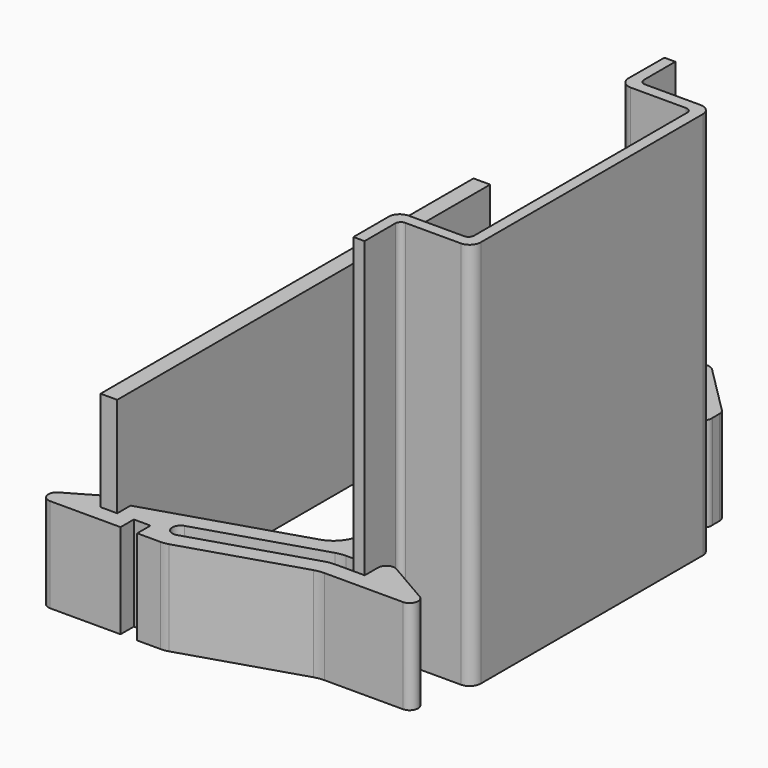
from build123d import *

# Parameters (mm, degrees)
PAD001_DEPTH = 35
PAD_DEPTH    = 8.5
BOX_W        = 1.5
BOX_H        = 42
BOX_DEPTH    = 17.5


with BuildPart() as din_rail:
    # Sketch001 → Pad001 (new body)
    with BuildSketch(Plane(origin=(0, 17.5, 0), x_dir=(1, 0, 0), z_dir=(0, 0, 1))):
        with BuildLine():
            Line((0, 0), (0.981065, 0))
            Line((0.981065, 0), (0.981065, -3.535445))
            ThreePointArc((0.981065, -3.535445), (1.127512, -3.888998), (1.481065, -4.035445))
            Line((1.481065, -4.035445), (6.481065, -4.035445))
            ThreePointArc((7.481065, -5.035445), (7.188172, -4.328338), (6.481065, -4.035445))
            Line((7.481065, -5.035445), (7.481065, -30.035445))
            ThreePointArc((6.481065, -31.035445), (7.188172, -30.742552), (7.481065, -30.035445))
            Line((6.481065, -31.035445), (1.481065, -31.035445))
            ThreePointArc((1.481065, -31.035445), (1.127512, -31.181892), (0.981065, -31.535445))
            Line((0.981065, -31.535445), (0.981065, -35))
            Line((0.981065, -35), (-0.018935, -35))
            Line((-0.018935, -35), (-0.018935, -31.035445))
            ThreePointArc((0.981065, -30.035445), (0.273958, -30.328338), (-0.018935, -31.035445))
            Line((0.981065, -30.035445), (5.981065, -30.035445))
            ThreePointArc((5.981065, -30.035445), (6.334618, -29.888998), (6.481065, -29.535445))
            Line((6.481065, -29.535445), (6.481065, -5.535445))
            ThreePointArc((6.481065, -5.535445), (6.334618, -5.181892), (5.981065, -5.035445))
            Line((5.981065, -5.035445), (0.981065, -5.035445))
            ThreePointArc((-0.018935, -4.035445), (0.273958, -4.742552), (0.981065, -5.035445))
            Line((-0.018935, -4.035445), (0, 0))
        make_face()
    extrude(amount=PAD001_DEPTH)


with BuildPart() as din_bracket_half:
    # Sketch → Pad (new body)
    with BuildSketch(Plane(origin=(-3, 0, 0), x_dir=(1, 0, 0), z_dir=(0, 0, 1))):
        with BuildLine():
            Line((2.771987, 22.541663), (-12.5, 22.541663))
            Line((-12.5, 22.541663), (-12.5, 21.041663))
            Line((-12.5, 21.041663), (-14, 21.041663))
            Line((-14, 21.041663), (-14, 22.541663))
            Line((-14, 22.541663), (-17.75, 22.541663))
            ThreePointArc((-17.75, 22.541663), (-18.28033, 22.321993), (-18.5, 21.791663))
            Line((-18.5, 21.791663), (-18.5, 19.5))
            Line((-18.5, 19.5), (-17, 19.5))
            Line((-17, 19.5), (-17, 21))
            Line((-17, 21), (-15.5, 21))
            Line((-15.5, 21), (-15.5, 19.541663))
            Line((-15.5, 19.541663), (-1.047056, 19.541663))
            ThreePointArc((0, 18.474809), (-0.305125, 19.222587), (-1.047056, 19.541663))
            Line((0, 18.474809), (-0.037298, -12.767241))
            ThreePointArc((-1.830702, -15.207168), (-0.534684, -14.280711), (-0.037298, -12.767241))
            Line((-15.5, -19.5), (-1.830702, -15.207168))
            Line((-15.5, -19.5), (-15.5, -21))
            Line((-15.5, -21), (-17, -21))
            Line((-17, -21), (-17, -20.25))
            ThreePointArc((-17, -20.25), (-17.375, -19.600481), (-18.125, -19.600481))
            Line((-18.125, -19.600481), (-20.723075, -21.100481))
            ThreePointArc((-20.723075, -21.100481), (-21.072519, -21.944114), (-20.348075, -22.5))
            Line((-20.348075, -22.5), (-14, -22.5))
            Line((-14, -22.5), (-14, -21))
            Line((-14, -21), (-12.5, -21))
            Line((-12.5, -21), (-12.5, -22.5))
            Line((-12.5, -22.5), (-10.37868, -22.5))
            ThreePointArc((-10.37868, -22.5), (-10.037666, -22.474008), (-9.704532, -22.396631))
            Line((0.672204, -19.137825), (-9.704532, -22.396631))
            ThreePointArc((1.571068, -19), (1.116383, -19.034657), (0.672204, -19.137825))
            Line((1.571068, -19), (8.646899, -19))
            ThreePointArc((8.646899, -19), (9.371343, -18.444114), (9.021899, -17.600481))
            Line((9.021899, -17.600481), (5.124786, -15.350481))
            ThreePointArc((5.124786, -15.350481), (4.374786, -15.350481), (3.999786, -16))
            Line((3.999786, -16), (3.999786, -17.5))
            Line((3.999786, -17.5), (1.341069, -17.5))
            ThreePointArc((1.341069, -17.5), (0.886384, -17.534657), (0.442205, -17.637825))
            Line((-10.153969, -20.965545), (0.442205, -17.637825))
            ThreePointArc((-10.6034, -19.534458), (-11.094223, -20.474716), (-10.153969, -20.965545))
            Line((0.212206, -16.137825), (-10.6034, -19.534458))
            ThreePointArc((1.111069, -16), (0.656385, -16.034657), (0.212206, -16.137825))
            Line((1.111069, -16), (2.999786, -16))
            Line((2.999786, -16), (2.999786, 17.5))
            Line((2.999786, 17.5), (3.999786, 17.5))
            Line((3.999786, 17.5), (5.556936, 15.942849))
            ThreePointArc((5.556936, 15.942849), (5.815061, 15.743569), (6.133362, 15.672675))
            Line((6.133362, 15.672675), (7.513396, 15.672675))
            ThreePointArc((7.513396, 15.672675), (7.992308, 15.980285), (8.11731, 16.535582))
            Line((8.11731, 16.535582), (8.11731, 17.314455))
            ThreePointArc((8.11731, 17.314455), (8.06022, 17.601467), (7.897641, 17.844785))
            Line((3.50396, 22.23847), (7.897641, 17.844785))
            ThreePointArc((3.50396, 22.23847), (3.168128, 22.462866), (2.771987, 22.541663))
        make_face()
    extrude(amount=PAD_DEPTH)


with BuildPart() as pcb:
    # Box → Box (new body)
    with BuildSketch(Plane(origin=(-20, -21, 0), x_dir=(1, 0, 0), z_dir=(0, 0, 1))):
        with Locations((0.75, 21)):
            Rectangle(BOX_W, BOX_H)
    extrude(amount=BOX_DEPTH)


solid = Compound([din_rail.part, din_bracket_half.part, pcb.part])
